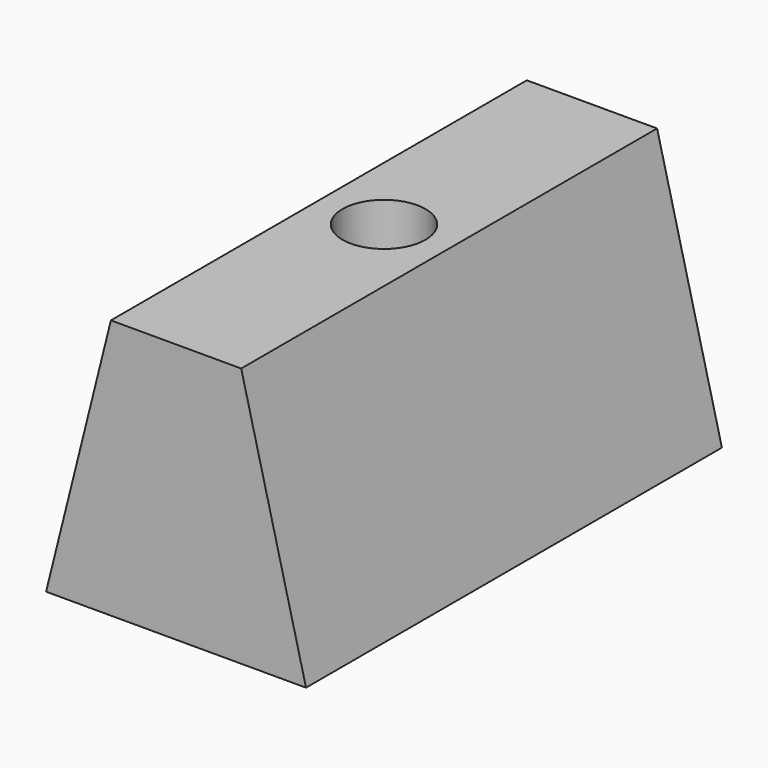
from build123d import *

# Parameters (mm, degrees)
F1_DEPTH = 50
F2_R     = 4
F3_DEPTH = 20


with BuildPart() as f1:
    # F0 (on Front) → F1 (new body)
    with BuildSketch(Plane.XZ):
        Polygon((-6.2668, 25), (-12.5, 0), (12.5, 0), (6.2668, 25), align=None)
    extrude(amount=-F1_DEPTH)

    # F2 (on face) → F3 (cut)
    with BuildSketch(Plane.XY.offset(25)):
        with Locations((0, 25)):
            Circle(F2_R)
    extrude(amount=-F3_DEPTH, mode=Mode.SUBTRACT)


solid = f1.part
